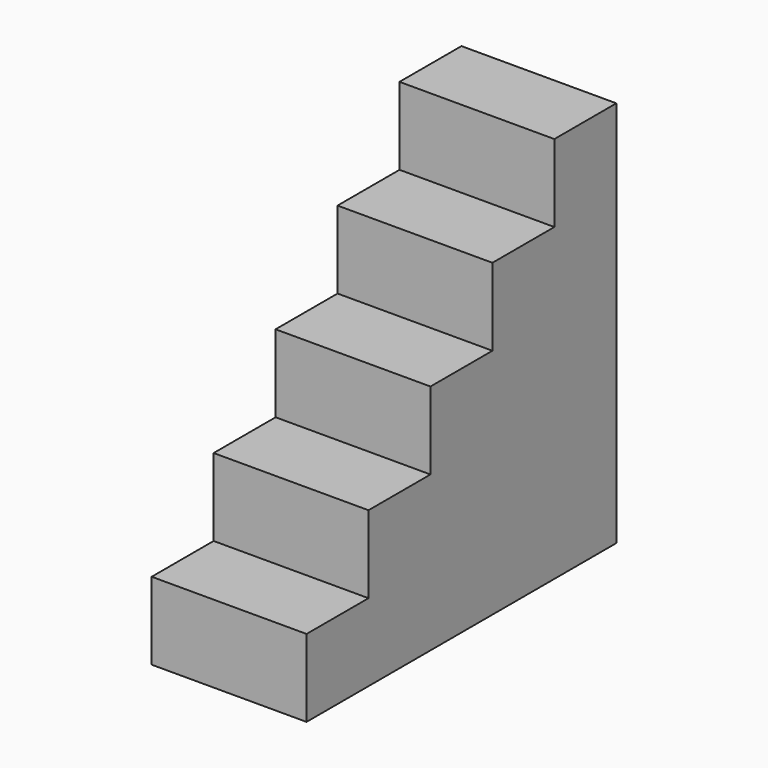
from build123d import *

# Parameters (mm, degrees)
F0_W     = 50.8
F0_H     = 50.8
F1_DEPTH = 25.4
F2_W     = 50.8
F2_H     = 25.4
F3_DEPTH = 25.4
F4_W     = 50.8
F4_H     = 76.2
F5_DEPTH = 25.4
F6_W     = 50.8
F6_H     = 101.6
F7_DEPTH = 25.4
F8_W     = 50.8
F8_H     = 127
F9_DEPTH = 25.4


with BuildPart() as f1:
    # F0 (on Top) → F1 (new body)
    with BuildSketch(Plane.XY):
        with Locations((25.4, 25.4)):
            Rectangle(F0_W, F0_H)
    extrude(amount=F1_DEPTH)

    # F2 (on face) → F3 (join)
    with BuildSketch(Plane.XY.offset(25.4)):
        with Locations((25.4, 38.1)):
            Rectangle(F2_W, F2_H)
    extrude(amount=F3_DEPTH)

    # F4 (on face) → F5 (join)
    with BuildSketch(Plane(origin=(0, 50.8, 0), x_dir=(-1, 0, 0), z_dir=(0, 1, 0))):
        with Locations((-25.4, 38.1)):
            Rectangle(F4_W, F4_H)
    extrude(amount=F5_DEPTH)

    # F6 (on face) → F7 (join)
    with BuildSketch(Plane(origin=(0, 0, 0), x_dir=(1, 0, 0), z_dir=(0, 0, -1))):
        with Locations((25.4, -25.4)):
            Rectangle(F6_W, F6_H)
    extrude(amount=F7_DEPTH)

    # F8 (on face) → F9 (join)
    with BuildSketch(Plane(origin=(0, 0, -25.4), x_dir=(1, 0, 0), z_dir=(0, 0, -1))):
        with Locations((25.4, -12.7)):
            Rectangle(F8_W, F8_H)
    extrude(amount=F9_DEPTH)


solid = f1.part
